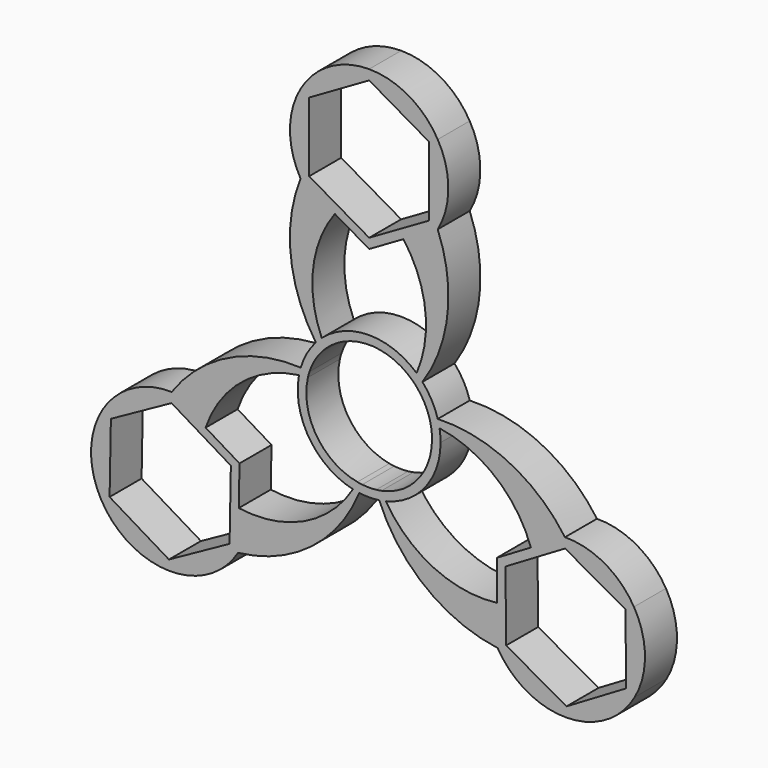
from build123d import *

# Parameters (mm, degrees)
F1_DEPTH = 7


with BuildPart() as f1:
    # F0 (on Front) → F1 (new body)
    with BuildSketch(Plane.XZ):
        with BuildLine():
            ThreePointArc((9.4456717064, 5.2601498032), (9.600468476, 4.7358347218), (9.7290242066, 4.2044763037))
            ThreePointArc((9.7290242066, 4.2044763037), (10.5107755148, 4.1373297128), (11.2892914689, 4.039571431))
            ThreePointArc((11.2892914689, 4.039571431), (11.15356321, 4.7072616256), (10.9816558574, 5.3665644531))
            ThreePointArc((10.9816558574, 5.3665644531), (10.2128759024, 5.324729345), (9.4456717064, 5.2601498032))
        make_face()
        with BuildLine():
            ThreePointArc((1.898740022, -10.2693575702), (1.4992647233, -9.5940330125), (1.1265857306, -8.9035591601))
            ThreePointArc((1.1265857306, -8.9035591601), (0.6670742909, -8.9850482544), (0.2045199529, -9.0469733711))
            ThreePointArc((0.2045199529, -9.0469733711), (0.4611512695, -9.7728612156), (0.7391628535, -10.4908322141))
            ThreePointArc((0.7391628535, -10.4908322141), (1.3215674895, -10.3937917824), (1.898740022, -10.2693575702))
        make_face()
        with BuildLine():
            ThreePointArc((7.4010012493, 8.9573059217), (8.6025045117, 7.207814721), (9.4456717064, 5.2601498032))
            ThreePointArc((9.4456717064, 5.2601498032), (10.2128759024, 5.324729345), (10.9816558574, 5.3665644531))
            ThreePointArc((10.9816558574, 5.3665644531), (9.9151405096, 7.9337532424), (8.3076151809, 10.2017425688))
            ThreePointArc((8.3076151809, 10.2017425688), (7.8635218541, 9.5728117995), (7.4010012493, 8.9573059217))
        make_face()
        with BuildLine():
            ThreePointArc((10.9816558574, 5.3665644531), (11.15356321, 4.7072616256), (11.2892914689, 4.039571431))
            ThreePointArc((11.2892914689, 4.039571431), (21.1279000718, -0.3174690096), (27.2848663586, -9.1420815667))
            Line((27.2848663586, -9.1420815667), (33.2484716393, -5.6156936051))
            ThreePointArc((33.2484716393, -5.6156936051), (23.5106289822, 2.7049804784), (10.9816558574, 5.3665644531))
        make_face()
        with BuildLine():
            ThreePointArc((0.7391628535, -10.4908322141), (0.4611512695, -9.7728612156), (0.2045199529, -9.0469733711))
            ThreePointArc((0.2045199529, -9.0469733711), (-1.0148426173, -9.1157310346), (-2.2343118188, -9.0488912223))
            ThreePointArc((-2.2343118188, -9.0488912223), (-2.4898011698, -9.7751817889), (-2.766683213, -10.4935891452))
            ThreePointArc((-2.766683213, -10.4935891452), (-1.013663046, -10.6157305708), (0.7391628535, -10.4908322141))
        make_face()
        with BuildLine():
            ThreePointArc((21.3933999959, -19.5962971804), (10.2778559187, -17.7925937698), (1.898740022, -10.2693575702))
            ThreePointArc((1.898740022, -10.2693575702), (1.3215674895, -10.3937917824), (0.7391628535, -10.4908322141))
            ThreePointArc((0.7391628535, -10.4908322141), (8.9347991107, -21.3094914503), (21.465538914, -26.5241248325))
            Line((21.465538914, -26.5241248325), (21.3933999959, -19.5962971804))
        make_face()
        with BuildLine():
            ThreePointArc((6.5996179621, 9.8144725101), (7.0117476249, 9.3965828635), (7.4010012493, 8.9573059217))
            ThreePointArc((7.4010012493, 8.9573059217), (7.8635218541, 9.5728117995), (8.3076151809, 10.2017425688))
            ThreePointArc((8.3076151809, 10.2017425688), (7.8082455965, 10.7301909978), (7.2789963207, 11.2287117377))
            ThreePointArc((7.2789963207, 11.2287117377), (6.9531804871, 10.5149275861), (6.5996179621, 9.8144725101))
        make_face()
        Polygon((33.2484716393, -5.6156936051), (27.2848663586, -9.1420815667), (21.3212610779, -12.6684695284), (21.3933999959, -19.5962971804), (21.465538914, -26.5241248325), (33.5370273114, -33.3270042133), (45.4642378728, -26.27422829), (45.3199600368, -12.4185729859), align=None)
        Polygon((43.9534161867, -25.4272131297), (33.5151531146, -31.5950866723), (22.9544864033, -25.6392224518), (22.8320827641, -13.5154846887), (33.2703458362, -7.3476111461), (43.8310125475, -13.3034753666), align=None, mode=Mode.SUBTRACT)
        with BuildLine():
            ThreePointArc((-2.766683213, -10.4935891452), (-2.4898011698, -9.7751817889), (-2.2343118188, -9.0488912223))
            ThreePointArc((-2.2343118188, -9.0488912223), (-2.663486724, -8.9927937788), (-3.0901225116, -8.9198559485))
            ThreePointArc((-3.0901225116, -8.9198559485), (-3.4574533465, -9.6131898005), (-3.8516967834, -10.2915819326))
            ThreePointArc((-3.8516967834, -10.2915819326), (-3.3114205546, -10.40456622), (-2.766683213, -10.4935891452))
        make_face()
        with BuildLine():
            ThreePointArc((7.2789963207, 11.2287117377), (7.8082455965, 10.7301909978), (8.3076151809, 10.2017425688))
            ThreePointArc((8.3076151809, 10.2017425688), (12.6944510585, 22.0519846925), (10.9765378838, 34.5708241647))
            Line((10.9765378838, 34.5708241647), (4.9765378838, 31.1067225496))
            ThreePointArc((4.9765378838, 31.1067225496), (8.7925937074, 21.4763824602), (7.2789963207, 11.2287117377))
        make_face()
        with BuildLine():
            ThreePointArc((45.3199600368, -12.4185729859), (40.1957356919, -7.3996709353), (33.2484716393, -5.6156936051))
            Line((33.2484716393, -5.6156936051), (45.3199600368, -12.4185729859))
        make_face()
        with BuildLine():
            ThreePointArc((-23.9704121928, -26.6211414084), (-11.1460643449, -21.4793793566), (-2.766683213, -10.4935891452))
            ThreePointArc((-2.766683213, -10.4935891452), (-3.3114205546, -10.40456622), (-3.8516967834, -10.2915819326))
            ThreePointArc((-3.8516967834, -10.2915819326), (-12.4303730025, -18.0029612656), (-23.8408479408, -19.6941497739))
            Line((-23.8408479408, -19.6941497739), (-23.9704121928, -26.6211414084))
        make_face()
        with BuildLine():
            Line((33.5370273114, -33.3270042133), (21.465538914, -26.5241248325))
            ThreePointArc((21.465538914, -26.5241248325), (26.5897632589, -31.5430268831), (33.5370273114, -33.3270042133))
        make_face()
        with BuildLine():
            ThreePointArc((-9.4479712841, 8.9573244772), (-9.0587156546, 9.3966016714), (-8.6465839183, 9.8144914063))
            ThreePointArc((-8.6465839183, 9.8144914063), (-9.0001447069, 10.5149473587), (-9.3259587712, 11.2287323179))
            ThreePointArc((-9.3259587712, 11.2287323179), (-9.8552105045, 10.7302116701), (-10.3545824748, 10.2017631212))
            ThreePointArc((-10.3545824748, 10.2017631212), (-9.9104905332, 9.5728313737), (-9.4479712841, 8.9573244772))
        make_face()
        Polygon((4.9765378838, 31.1067225496), (10.9765378838, 34.5708241647), (10.9765378838, 48.4272306253), (-1.0234621162, 55.3554338556), (-13.0234621162, 48.4272306253), (-13.0234621162, 34.5708241647), (-7.0234621162, 31.1067225496), (-1.0234621162, 27.6426209345), align=None)
        Polygon((-1.0234314257, 53.623383048), (9.476553229, 47.5611786427), (9.4765225384, 35.4368229897), (-1.0234928068, 29.3746717421), (-11.5234774615, 35.4368761474), (-11.5234467709, 47.5612318003), align=None, mode=Mode.SUBTRACT)
        with BuildLine():
            Line((10.9765378838, 48.4272306253), (10.9765378838, 34.5708241647))
            ThreePointArc((10.9765378838, 34.5708241647), (12.833161952, 41.499027395), (10.9765378838, 48.4272306253))
        make_face()
        with BuildLine():
            ThreePointArc((45.4642378728, -26.27422829), (47.2486223754, -19.3270688073), (45.3199600368, -12.4185729859))
            Line((45.3199600368, -12.4185729859), (45.4642378728, -26.27422829))
        make_face()
        with BuildLine():
            ThreePointArc((-13.3043943376, 4.2143852159), (-12.5245673718, 4.301066678), (-11.7419405373, 4.3570935503))
            ThreePointArc((-11.7419405373, 4.3570935503), (-11.6136761156, 4.8588272943), (-11.4619392518, 5.3539681185))
            ThreePointArc((-11.4619392518, 5.3539681185), (-12.2285329906, 5.425430242), (-12.9969065423, 5.474162989))
            ThreePointArc((-12.9969065423, 5.474162989), (-13.1669977485, 4.8482641696), (-13.3043943376, 4.2143852159))
        make_face()
        Polygon((-36.0978778993, -33.3237211757), (-23.9704121928, -26.6211414084), (-23.8408479408, -19.6941497739), (-23.7112836889, -12.7671581394), (-29.6454522902, -9.1914563885), (-35.5796208915, -5.6157546377), (-47.707086598, -12.3183344049), (-47.9662151019, -26.172317674), align=None)
        Polygon((-35.6120119545, -7.3475025463), (-25.2272169022, -13.6049806103), (-25.4539543431, -25.7272159707), (-36.0654868363, -31.5919732671), (-46.4502818886, -25.3344952031), (-46.2235444477, -13.2122598427), align=None, mode=Mode.SUBTRACT)
        with BuildLine():
            ThreePointArc((-36.0978778993, -33.3237211757), (-29.1360643676, -31.5973940688), (-23.9704121928, -26.6211414084))
            Line((-23.9704121928, -26.6211414084), (-36.0978778993, -33.3237211757))
        make_face()
        with BuildLine():
            Line((45.4642378728, -26.27422829), (33.5370273114, -33.3270042133))
            ThreePointArc((33.5370273114, -33.3270042133), (40.4456361588, -31.3987467812), (45.4642378728, -26.27422829))
        make_face()
        with BuildLine():
            ThreePointArc((-11.4619392518, 5.3539681185), (-10.6254992856, 7.2509658151), (-9.4479712841, 8.9573244772))
            ThreePointArc((-9.4479712841, 8.9573244772), (-9.9104905332, 9.5728313737), (-10.3545824748, 10.2017631212))
            ThreePointArc((-10.3545824748, 10.2017631212), (-11.9348638054, 7.9827885766), (-12.9969065423, 5.474162989))
            ThreePointArc((-12.9969065423, 5.474162989), (-12.2285329906, 5.425430242), (-11.4619392518, 5.3539681185))
        make_face()
        with BuildLine():
            ThreePointArc((-10.3545824748, 10.2017631212), (-9.8552105045, 10.7302116701), (-9.3259587712, 11.2287323179))
            ThreePointArc((-9.3259587712, 11.2287323179), (-10.8395318221, 21.4763975879), (-7.0234621162, 31.1067225496))
            Line((-7.0234621162, 31.1067225496), (-13.0234621162, 34.5708241647))
            ThreePointArc((-13.0234621162, 34.5708241647), (-14.741390701, 22.0520007508), (-10.3545824748, 10.2017631212))
        make_face()
        with BuildLine():
            Line((-1.0234621162, 55.3554338556), (10.9765378838, 48.4272306253))
            ThreePointArc((10.9765378838, 48.4272306253), (5.9048499179, 53.4992158488), (-1.0234621162, 55.3554338556))
        make_face()
        with BuildLine():
            ThreePointArc((-29.6454522902, -9.1914563885), (-23.3905035411, -0.1535380211), (-13.3043943376, 4.2143852159))
            ThreePointArc((-13.3043943376, 4.2143852159), (-13.1669977485, 4.8482641696), (-12.9969065423, 5.474162989))
            ThreePointArc((-12.9969065423, 5.474162989), (-25.7189527233, 2.8425568481), (-35.5796208915, -5.6157546377))
            Line((-35.5796208915, -5.6157546377), (-29.6454522902, -9.1914563885))
        make_face()
        with BuildLine():
            ThreePointArc((-47.9662151019, -26.172317674), (-42.9902652062, -31.3382614954), (-36.0978778993, -33.3237211757))
            Line((-36.0978778993, -33.3237211757), (-47.9662151019, -26.172317674))
        make_face()
        with BuildLine():
            Line((-13.0234621162, 48.4272306253), (-1.0234621162, 55.3554338556))
            ThreePointArc((-1.0234621162, 55.3554338556), (-7.9517741504, 53.4992158488), (-13.0234621162, 48.4272306253))
        make_face()
        with BuildLine():
            ThreePointArc((-47.707086598, -12.3183344049), (-49.6929502341, -19.2106053333), (-47.9662151019, -26.172317674))
            Line((-47.9662151019, -26.172317674), (-47.707086598, -12.3183344049))
        make_face()
        with BuildLine():
            ThreePointArc((-13.0234621162, 48.4272306253), (-14.8800861845, 41.499027395), (-13.0234621162, 34.5708241647))
            Line((-13.0234621162, 34.5708241647), (-13.0234621162, 48.4272306253))
        make_face()
        with BuildLine():
            Line((-47.707086598, -12.3183344049), (-35.5796208915, -5.6157546377))
            ThreePointArc((-35.5796208915, -5.6157546377), (-42.5414344232, -7.3420817446), (-47.707086598, -12.3183344049))
        make_face()
        with BuildLine():
            ThreePointArc((-3.8516967834, -10.2915819326), (-3.4574533465, -9.6131898005), (-3.0901225116, -8.9198559485))
            ThreePointArc((-3.0901225116, -8.9198559485), (-10.2394516965, -4.1212403882), (-11.7419405373, 4.3570935503))
            ThreePointArc((-11.7419405373, 4.3570935503), (-12.5245673718, 4.301066678), (-13.3043943376, 4.2143852159))
            ThreePointArc((-13.3043943376, 4.2143852159), (-11.4961733632, -4.940173018), (-3.8516967834, -10.2915819326))
        make_face()
        with BuildLine():
            ThreePointArc((-8.6465839183, 9.8144914063), (-1.0234791734, 12.8842655642), (6.5996179621, 9.8144725101))
            ThreePointArc((6.5996179621, 9.8144725101), (6.9531804871, 10.5149275861), (7.2789963207, 11.2287117377))
            ThreePointArc((7.2789963207, 11.2287117377), (-1.0234773143, 14.3842655642), (-9.3259587712, 11.2287323179))
            ThreePointArc((-9.3259587712, 11.2287323179), (-9.0001447069, 10.5149473587), (-8.6465839183, 9.8144914063))
        make_face()
        with BuildLine():
            ThreePointArc((9.7290242066, 4.2044763037), (9.9144614614, 3.0509516514), (9.9765071932, 1.8842655643))
            ThreePointArc((9.9765071932, 1.8842655643), (7.4809432095, -5.0924505719), (1.1265857306, -8.9035591601))
            ThreePointArc((1.1265857306, -8.9035591601), (1.4992647233, -9.5940330125), (1.898740022, -10.2693575702))
            ThreePointArc((1.898740022, -10.2693575702), (8.7942948859, -5.8527264107), (11.4765071932, 1.8842655643))
            ThreePointArc((11.4765071932, 1.8842655643), (11.4296153082, 2.9659763743), (11.2892914689, 4.039571431))
            ThreePointArc((11.2892914689, 4.039571431), (10.5107755148, 4.1373297128), (9.7290242066, 4.2044763037))
        make_face()
    extrude(amount=F1_DEPTH)


solid = f1.part
